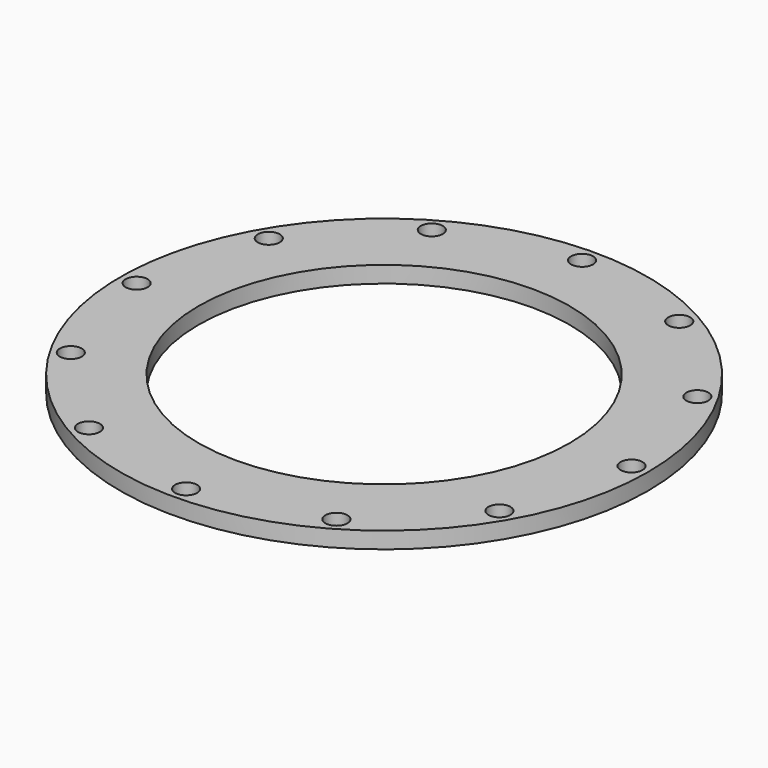
from build123d import *

# Parameters (mm, degrees)
F0_R     = 480
F0_R_2   = 337.5
F1_DEPTH = 30
F2_R     = 20
F3_DEPTH = 30.001


with BuildPart() as f1:
    # F0 (on Top) → F1 (new body)
    with BuildSketch(Plane.XY):
        Circle(F0_R)
        Circle(F0_R_2, mode=Mode.SUBTRACT)
    extrude(amount=F1_DEPTH)

    # F2 (on face) → F3 (cut, through all)
    with BuildSketch(Plane.XY.offset(30)):
        with Locations((-389.711432, 225)):
            Circle(F2_R)
        with Locations((-450, 0)):
            Circle(F2_R)
        with Locations((-389.711432, -225)):
            Circle(F2_R)
        with Locations((-225, -389.711432)):
            Circle(F2_R)
        with Locations((0, -450)):
            Circle(F2_R)
        with Locations((225, -389.711432)):
            Circle(F2_R)
        with Locations((389.711432, -225)):
            Circle(F2_R)
        with Locations((450, 0)):
            Circle(F2_R)
        with Locations((389.711432, 225)):
            Circle(F2_R)
        with Locations((225, 389.711432)):
            Circle(F2_R)
        with Locations((0, 450)):
            Circle(F2_R)
        with Locations((-225, 389.711432)):
            Circle(F2_R)
    extrude(amount=-F3_DEPTH, mode=Mode.SUBTRACT)


solid = f1.part
